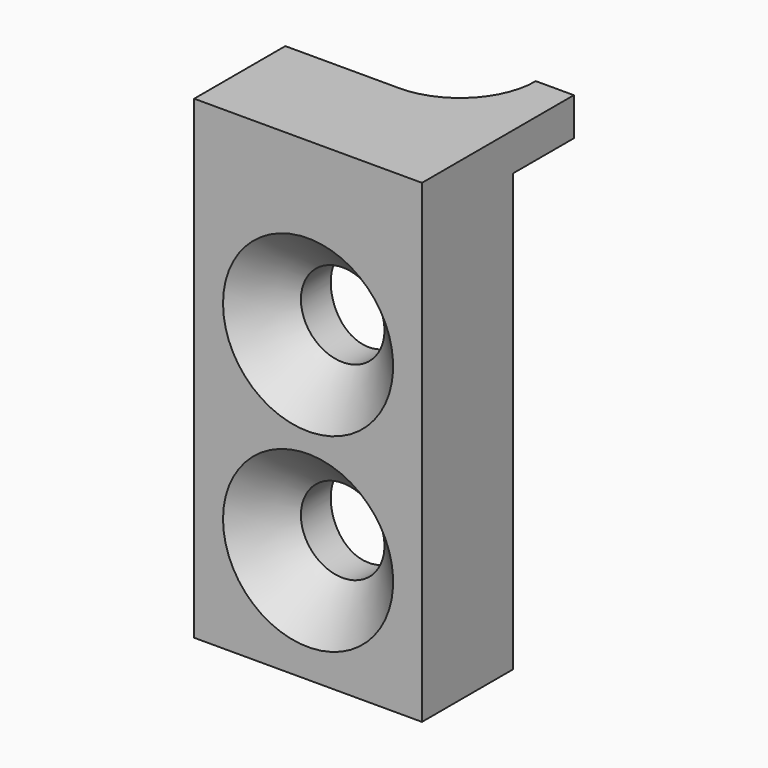
from build123d import *

# Parameters (mm, degrees)
F0_W           = 12
F0_H           = 25
F1_DEPTH       = 10
F2_R           = 10
F3_DEPTH       = 23
F5_DEPTH       = 25
F7_D           = 4.4
F7_CSINK_D     = 8.96
F7_CSINK_ANGLE = 90


with BuildPart() as f1:
    # F0 (on Front) → F1 (new body)
    with BuildSketch(Plane.XZ):
        with Locations((6, 12.5)):
            Rectangle(F0_W, F0_H)
    extrude(amount=F1_DEPTH)

    # F2 (on face) → F3 (cut)
    with BuildSketch(Plane(origin=(0, 0, 0), x_dir=(1, 0, 0), z_dir=(0, 0, -1))):
        with Locations((6, -4)):
            Circle(F2_R)
    extrude(amount=-F3_DEPTH, mode=Mode.SUBTRACT)

    # F4 (on face) → F5 (cut)
    with BuildSketch(Plane.XY.offset(25)):
        with BuildLine():
            ThreePointArc((6, -4), (8.8284271247, -2.8284271247), (10, 0))
            ThreePointArc((10, 0), (3.1715728753, 2.8284271247), (6, -4))
        make_face()
        with BuildLine():
            Line((0, -4), (6, -4))
            ThreePointArc((6, -4), (3.1715728753, -2.8284271247), (2, 0))
            Line((2, 0), (0, 0))
            Line((0, 0), (0, -4))
        make_face()
    extrude(amount=-F5_DEPTH, mode=Mode.SUBTRACT)

    # F7 (through all)
    with Locations(Plane.XZ.offset(10)):
        with Locations((6, 6), (6, 16)):
            CounterSinkHole(F7_D / 2, F7_CSINK_D / 2, counter_sink_angle=F7_CSINK_ANGLE)


solid = f1.part
